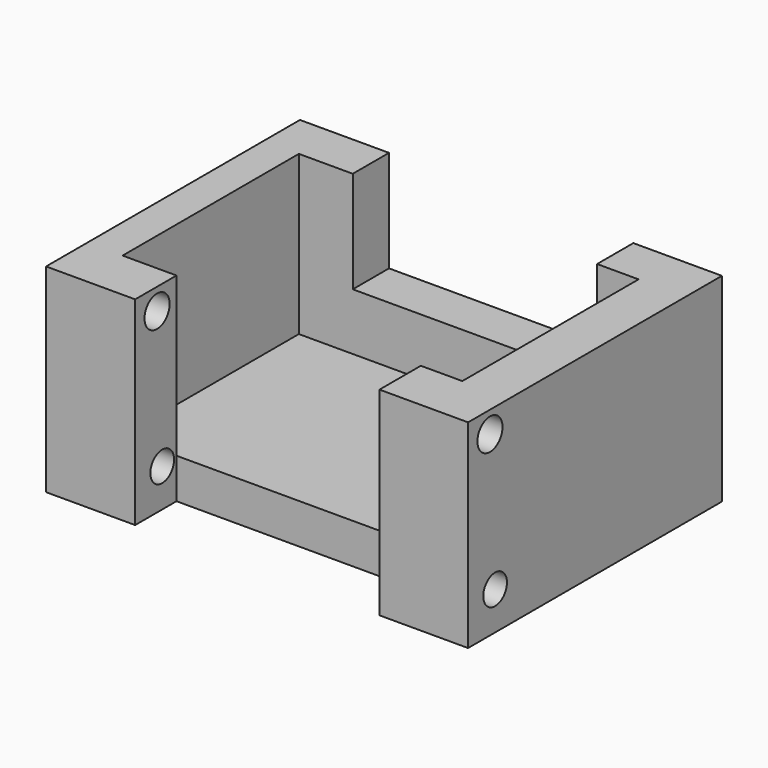
from build123d import *

# Parameters (mm, degrees)
F0_W      = 101.346001029
F0_H      = 47.725263983
F1_DEPTH  = 76.2
F2_W      = 81.5831655636
F2_H      = 52.9085965827
F3_DEPTH  = 38.1
F4_W      = 58.673998341
F4_H      = 24.4241077453
F5_DEPTH  = 76.2
F6_W      = 58.673998341
F6_H      = 12.4078532577
F7_DEPTH  = 50.8
F8_R      = 3.5544652988
F9_DEPTH  = 127
F10_R     = 3.7666020305
F11_DEPTH = 127


with BuildPart() as f1:
    # F0 (on Front) → F1 (new body)
    with BuildSketch(Plane.XZ):
        with Locations((-50.6730005145, 23.8626319915)):
            Rectangle(F0_W, F0_H)
    extrude(amount=F1_DEPTH)

    # F2 (on face) → F3 (cut)
    with BuildSketch(Plane.XY.offset(47.725263983)):
        with Locations((-52.104968112, -37.337848451)):
            Rectangle(F2_W, F2_H)
    extrude(amount=-F3_DEPTH, mode=Mode.SUBTRACT)

    # F4 (on face) → F5 (cut)
    with BuildSketch(Plane.XZ.offset(76.2)):
        with Locations((-50.6128417328, 35.5132101104)):
            Rectangle(F4_W, F4_H)
    extrude(amount=-F5_DEPTH, mode=Mode.SUBTRACT)

    # F6 (on face) → F7 (cut)
    with BuildSketch(Plane.XY.offset(23.3011562377)):
        with Locations((-50.6128417328, -69.9960733712)):
            Rectangle(F6_W, F6_H)
    extrude(amount=-F7_DEPTH, mode=Mode.SUBTRACT)

    # F8 (on face) → F9 (cut)
    with BuildSketch(Plane(origin=(-101.346001029, 0, 0), x_dir=(0, -1, 0), z_dir=(-1, 0, 0))):
        with Locations((68.0850967765, 9.1249775141)):
            Circle(F8_R)
    extrude(amount=-F9_DEPTH, mode=Mode.SUBTRACT)

    # F10 (on face) → F11 (cut)
    with BuildSketch(Plane(origin=(-101.346001029, 0, 0), x_dir=(0, -1, 0), z_dir=(-1, 0, 0))):
        with Locations((69.6296393871, 42.5492078066)):
            Circle(F10_R)
    extrude(amount=-F11_DEPTH, mode=Mode.SUBTRACT)


solid = f1.part
